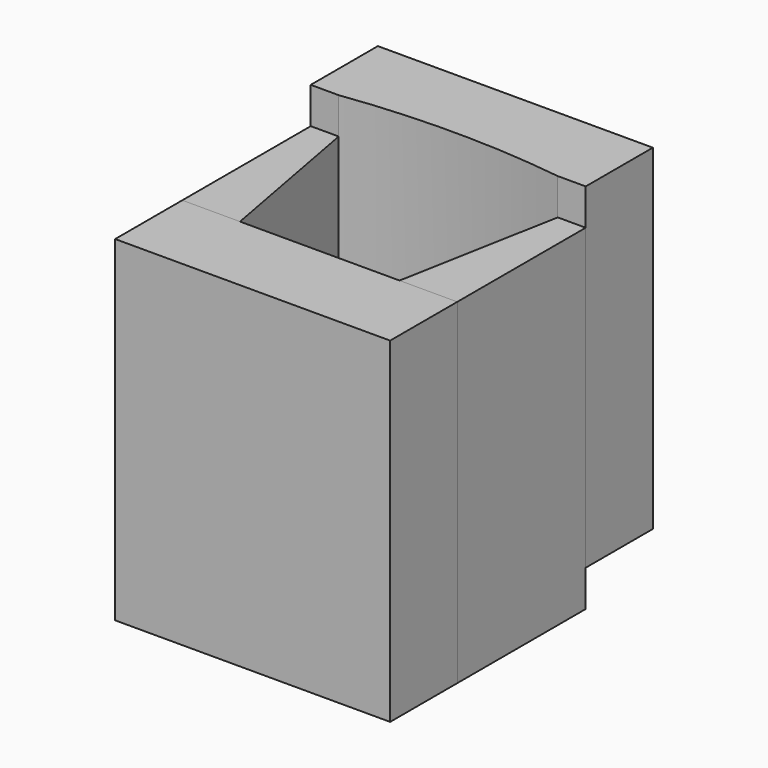
from build123d import *

# Parameters (mm, degrees)
F1_DEPTH = 6.5
F3_DEPTH = 60
F6_DEPTH = 60
F7_W     = 49.15
F7_H     = 15
F8_DEPTH = 60


with BuildPart() as f1:
    # F0 (on Top) → F1 (new body)
    with BuildSketch(Plane.XY):
        with BuildLine():
            Line((-14.2567, -15), (14.256576, -15))
            Line((14.256576, -15), (19.575, 13.6955))
            ThreePointArc((19.575, 13.6955), (-1.3e-05, 15), (-19.575, 13.695125))
            Line((-19.575, 13.695125), (-14.2567, -15))
        make_face()
    extrude(amount=F1_DEPTH)


with BuildPart() as f3:
    # F2 (on face) → F3 (new body)
    with BuildSketch(Plane(origin=(0, 0, 0), x_dir=(1, 0, 0), z_dir=(0, 0, -1))):
        Polygon((-14.2567, 15), (-19.575, 15), (-24.575, 15), (-24.575, -13.695125), (-19.575, -13.695125), align=None)
    extrude(amount=-F3_DEPTH)


with BuildPart() as f4_1:
    # F4: instance of F3
    add(f3.part.mirror(Plane.YZ))


with BuildPart() as f6:
    # F5 (on face) → F6 (new body)
    with BuildSketch(Plane.XY.offset(6.5)):
        with BuildLine():
            ThreePointArc((-19.575, 13.695125), (-1.3e-05, 15), (19.575, 13.6955))
            Line((19.575, 13.6955), (24.575, 13.6955))
            Line((24.575, 13.6955), (24.575, 28.6955))
            Line((24.575, 28.6955), (-24.575, 28.6955))
            Line((-24.575, 28.6955), (-24.575, 13.6955))
            Line((-24.575, 13.6955), (-19.575, 13.695125))
        make_face()
    extrude(amount=F6_DEPTH)


with BuildPart() as f8:
    # F7 (on face) → F8 (new body)
    with BuildSketch(Plane.XY.offset(60)):
        with Locations((0, -22.5)):
            Rectangle(F7_W, F7_H)
    extrude(amount=-F8_DEPTH)


solid = Compound([f1.part, f3.part, f4_1.part, f6.part, f8.part])
